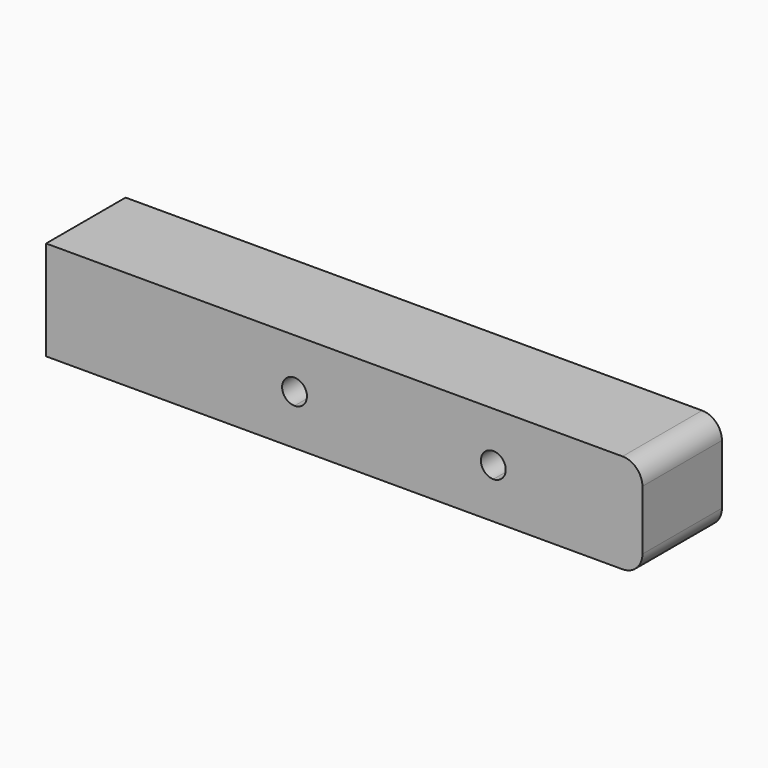
from build123d import *

# Parameters (mm, degrees)
F1_DEPTH = 10


with BuildPart() as f1:
    # F0 (on Front) → F1 (new body)
    with BuildSketch(Plane.XZ):
        with BuildLine():
            Line((-1.476836, 23.049567), (-26.476836, 23.049567))
            Line((-26.476836, 23.049567), (-26.476836, 13.049567))
            Line((-26.476836, 13.049567), (-1.476836, 13.049567))
            Line((-1.476836, 13.049567), (-1.476836, 16.799567))
            ThreePointArc((-1.476836, 16.799567), (-2.726836, 18.049567), (-1.476836, 19.299567))
            Line((-1.476836, 19.299567), (-1.476836, 23.049567))
        make_face()
        with BuildLine():
            Line((18.523164, 23.049567), (-1.476836, 23.049567))
            Line((-1.476836, 23.049567), (-1.476836, 19.299567))
            ThreePointArc((-1.476836, 19.299567), (-0.592953, 18.933451), (-0.226836, 18.049567))
            ThreePointArc((-0.226836, 18.049567), (-0.592953, 17.165684), (-1.476836, 16.799567))
            Line((-1.476836, 16.799567), (-1.476836, 13.049567))
            Line((-1.476836, 13.049567), (18.523164, 13.049567))
            Line((18.523164, 13.049567), (18.523164, 16.799567))
            ThreePointArc((18.523164, 16.799567), (17.273164, 18.049567), (18.523164, 19.299567))
            Line((18.523164, 19.299567), (18.523164, 23.049567))
        make_face()
        with BuildLine():
            Line((31.523164, 23.049567), (18.523164, 23.049567))
            Line((18.523164, 23.049567), (18.523164, 19.299567))
            ThreePointArc((18.523164, 19.299567), (19.407047, 18.933451), (19.773164, 18.049567))
            ThreePointArc((19.773164, 18.049567), (19.407047, 17.165684), (18.523164, 16.799567))
            Line((18.523164, 16.799567), (18.523164, 13.049567))
            Line((18.523164, 13.049567), (31.523164, 13.049567))
            ThreePointArc((31.523164, 13.049567), (32.937378, 13.635354), (33.523164, 15.049567))
            Line((33.523164, 15.049567), (33.523164, 21.049567))
            ThreePointArc((33.523164, 21.049567), (32.937378, 22.463781), (31.523164, 23.049567))
        make_face()
    extrude(amount=F1_DEPTH)


solid = f1.part
